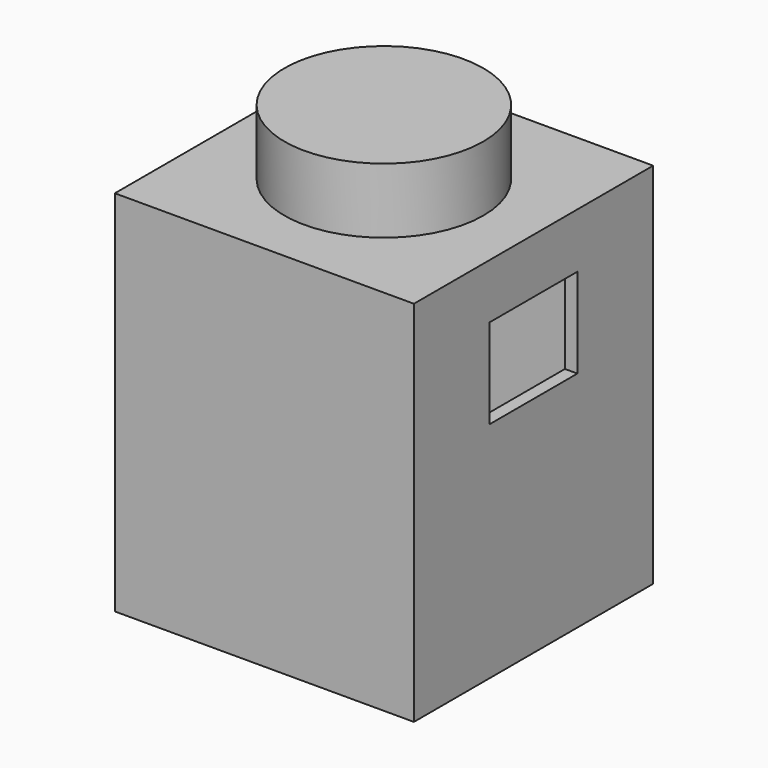
from build123d import *

# Parameters (mm, degrees)
F3_W     = 60
F3_H     = 60
F4_DEPTH = 73.86
F5_R     = 19.95
F6_DEPTH = 13.08
F8_T     = -2.5
F7_W     = 22
F7_H     = 18
F9_DEPTH = 2.5


with BuildPart() as f4:
    # F3 (on Top) → F4 (new body)
    with BuildSketch(Plane.XY):
        Rectangle(F3_W, F3_H)
    extrude(amount=F4_DEPTH)

    # F5 (on face) → F6 (join)
    with BuildSketch(Plane.XY.offset(73.86)):
        with Locations((-0.130815577, 0.1308139617)):
            Circle(F5_R)
    extrude(amount=F6_DEPTH)

    # F8
    f8_openings = [f4.faces().sort_by_distance(p)[0] for p in [
        (0, 0, 0),
    ]]
    offset(amount=F8_T, openings=f8_openings, kind=Kind.INTERSECTION)

    # F7 (on face) → F9 (cut)
    with BuildSketch(Plane.YZ.offset(30)):
        with Locations((0, 53.86)):
            Rectangle(F7_W, F7_H)
    extrude(amount=-F9_DEPTH, mode=Mode.SUBTRACT)


solid = f4.part
